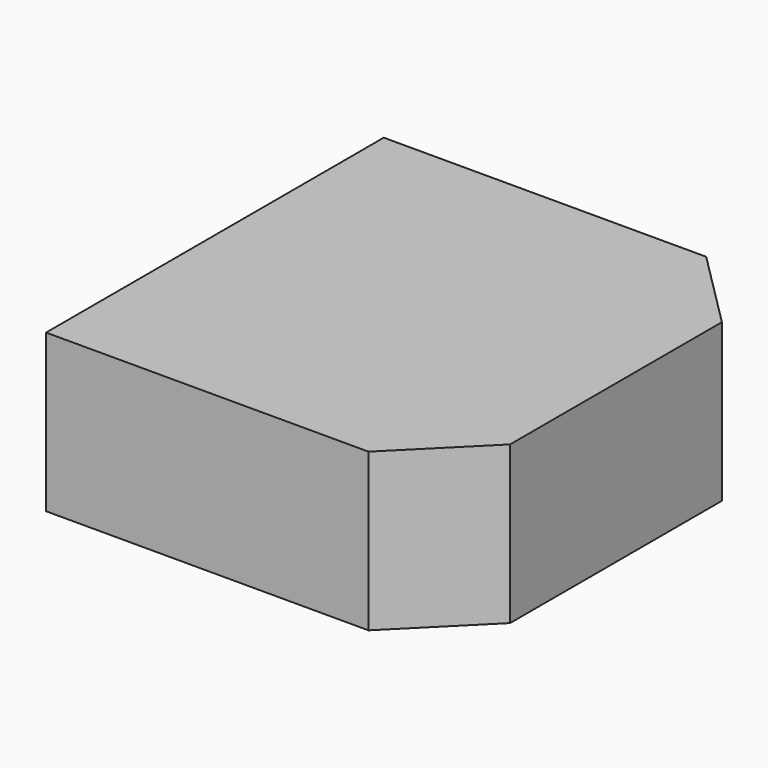
from build123d import *

# Parameters (mm, degrees)
F0_W     = 64.755738
F0_H     = 68.149112
F1_DEPTH = 25.4
F2_SIZE  = 12.7


with BuildPart() as f1:
    # F0 (on Top) → F1 (new body)
    with BuildSketch(Plane.XY):
        with Locations((32.377869, 34.074556)):
            Rectangle(F0_W, F0_H)
    extrude(amount=F1_DEPTH)

    # F2
    f2_edges = [f1.edges().sort_by_distance(p)[0] for p in [
        (64.755738, 0, 12.7),
        (64.755738, 68.149112, 12.7),
    ]]
    chamfer(f2_edges, length=F2_SIZE)


solid = f1.part
